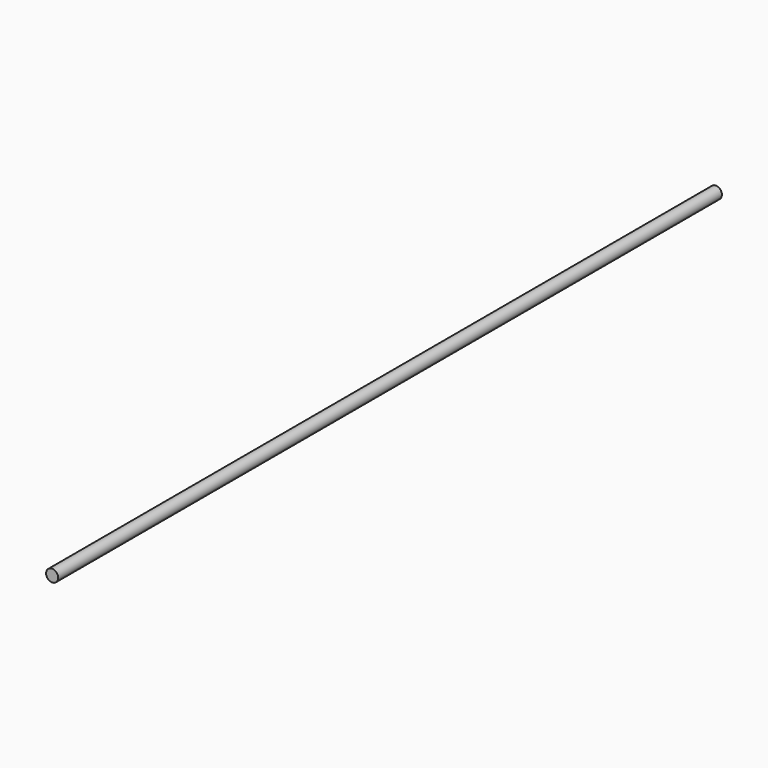
from build123d import *

# Parameters (mm, degrees)
SKETCH_R  = 9.5
PAD_DEPTH = 1300


with BuildPart() as part:
    # Sketch → Pad (new body)
    with BuildSketch(Plane.XZ):
        Circle(SKETCH_R)
    extrude(amount=PAD_DEPTH)


solid = part.part
